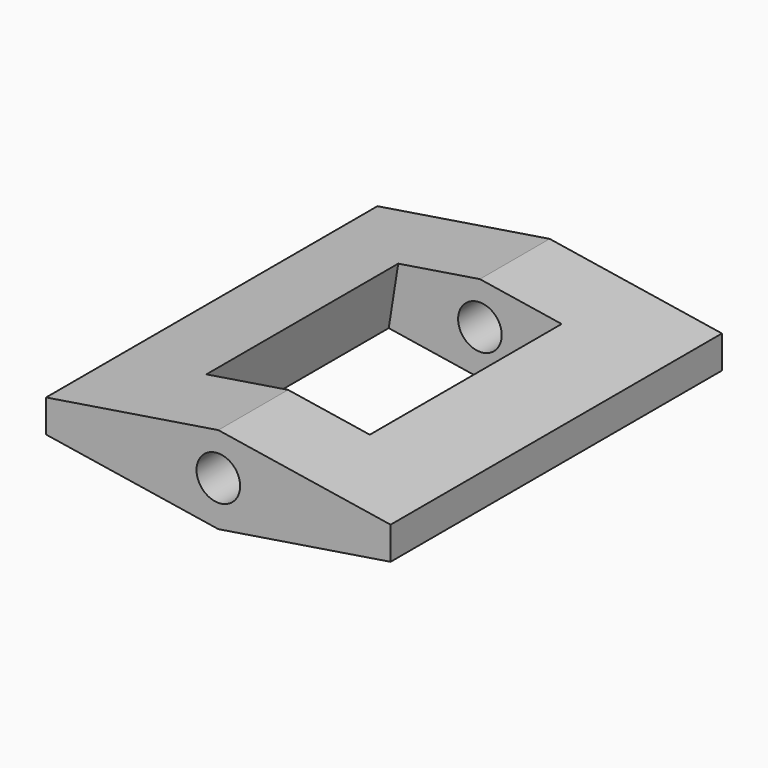
from build123d import *

# Parameters (mm, degrees)
F1_DEPTH = 120.65
F2_DEPTH = 120.65
F4_D     = 12.7
F6_W     = 26.88828125
F6_H     = 69.85
F7_DEPTH = 32.9290334674
F5_W     = 26.88828125
F5_H     = 69.85
F8_DEPTH = 32.9290334674


with BuildPart() as f1:
    # F0 (on Front) → F1 (new body)
    with BuildSketch(Plane.XZ):
        Polygon((-50.176050998, 0.6862330108), (-50.176050998, -8.8387669892), (0, -16.7762669892), (0, 8.6237330108), align=None)
    extrude(amount=F1_DEPTH)

    # F0 (on Front) → F2 (join)
    with BuildSketch(Plane.XZ):
        Polygon((0, 8.6237330108), (0, -16.7762669892), (50.176050998, -8.8387669892), (50.176050998, 0.6862330108), align=None)
    extrude(amount=F2_DEPTH)

    # F4 (through all)
    with Locations(Plane(origin=(0, 0, 0), x_dir=(1, 0, 0), z_dir=(0, 1, 0))):
        with Locations((0, 3.6785302916)):
            Hole(F4_D / 2)

    # F6 (on face) → F7 (cut, through all)
    with BuildSketch(Plane(origin=(-2.5890958046, 0, -16.3666901584), x_dir=(0.9877175393, 0, -0.15625), z_dir=(-0.15625, 0, -0.9877175393))):
        with Locations((-10.8228489079, 60.325)):
            Rectangle(F6_W, F6_H)
    extrude(amount=-F7_DEPTH, mode=Mode.SUBTRACT)

    # F5 (on face) → F8 (cut, through all)
    with BuildSketch(Plane(origin=(2.5890958046, 0, -16.3666901584), x_dir=(0.9877175393, 0, 0.15625), z_dir=(0.15625, 0, -0.9877175393))):
        with Locations((10.8228489079, 60.325)):
            Rectangle(F5_W, F5_H)
    extrude(amount=-F8_DEPTH, mode=Mode.SUBTRACT)


solid = f1.part
